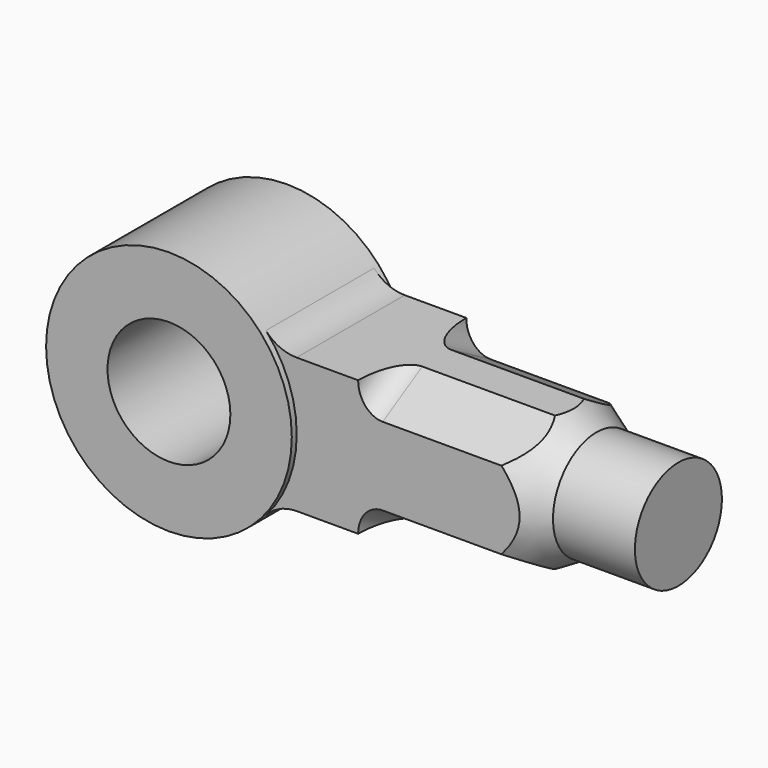
from build123d import *

# Parameters (mm, degrees)
F0_R      = 30
F0_R_2    = 15
F1_DEPTH  = 18
F2_W      = 20
F2_H      = 33
F3_DEPTH  = 16.5
F5_DEPTH  = 45
F9_DEPTH  = 45.001
F10_DEPTH = 45.001
F11_R     = 6
F12_R     = 13.2790561914
F13_DEPTH = 20
F14_R     = 10


with BuildPart() as f1:
    # F0 (on Front) → F1 (new body, symmetric)
    with BuildSketch(Plane.XZ):
        Circle(F0_R)
        Circle(F0_R_2, mode=Mode.SUBTRACT)
    extrude(amount=F1_DEPTH, both=True)

    # F2 (on Front) → F3 (join, symmetric)
    with BuildSketch(Plane.XZ):
        with Locations((35, 0)):
            Rectangle(F2_W, F2_H)
    extrude(amount=F3_DEPTH, both=True)

    # F4 (on face) → F5 (join)
    with BuildSketch(Plane.YZ.offset(45)):
        Polygon((-16.5, 9.5262794416), (-16.5, -9.5262794416), (0, -19.0525588833), (16.5, -9.5262794416), (16.5, 9.5262794416), (0, 19.0525588833), align=None)
    extrude(amount=F5_DEPTH)

    # F7 (on mid) → F8 (revolve, cut)
    with BuildSketch(Plane(origin=(0, 0, 0), x_dir=(-1, 0, 0), z_dir=(0, 1, 0))):
        Polygon((-90, 19.0525588833), (-90, 13.2790561914), (-80, 19.0525588833), align=None)
    revolve(axis=Axis((76.7741315067, 0, 0), (1, 0, 0)), mode=Mode.SUBTRACT)

    # F9 (cut, through all): a face of the model
    f9_faces = [f1.faces().sort_by_distance(p)[0] for p in [
        (45, 0, 17.3508529611),
    ]]
    extrude(f9_faces, amount=-F9_DEPTH, mode=Mode.SUBTRACT)

    # F10 (cut, through all): a face of the model
    f10_faces = [f1.faces().sort_by_distance(p)[0] for p in [
        (45, 0, -17.3508529611),
    ]]
    extrude(f10_faces, amount=-F10_DEPTH, mode=Mode.SUBTRACT)

    # F11
    f11_edges = [f1.edges().sort_by_distance(p)[0] for p in [
        (45, -10.460581, -13.01314),
        (45, -10.460581, 13.01314),
        (45, 10.460581, 13.01314),
        (45, 10.460581, -13.01314),
    ]]
    fillet(f11_edges, radius=F11_R)

    # F12 (on face) → F13 (join)
    with BuildSketch(Plane.YZ.offset(90)):
        Circle(F12_R)
    extrude(amount=F13_DEPTH)

    # F14
    f14_edges = [f1.edges().sort_by_distance(p)[0] for p in [
        (25.05494, 0, 16.5),
        (25.05494, 0, -16.5),
    ]]
    fillet(f14_edges, radius=F14_R)


solid = f1.part
